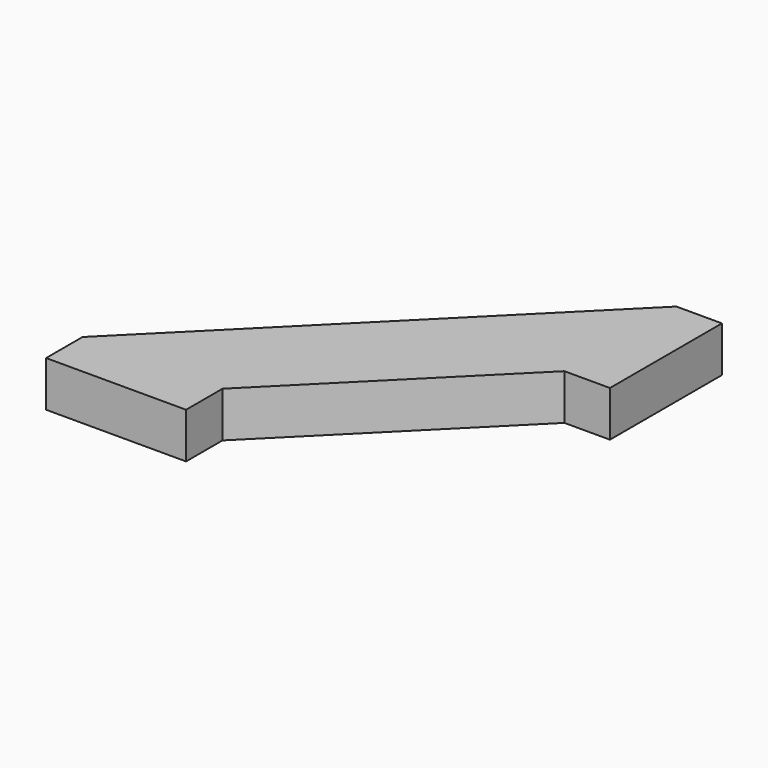
from build123d import *

# Parameters (mm, degrees)
F1_DEPTH = 12.3952
F2_W     = 38.1
F2_H     = 12.3952
F3_DEPTH = 12.3952
F4_W     = 38.1
F4_H     = 12.3952
F5_DEPTH = 12.3952


with BuildPart() as f1:
    # F0 (on Top) → F1 (new body)
    with BuildSketch(Plane.XY):
        Polygon((89.802561, 89.802561), (0, 0), (38.1, 0), (89.802561, 51.702561), align=None)
    extrude(amount=F1_DEPTH)

    # F2 (on face) → F3 (join)
    with BuildSketch(Plane.YZ.offset(89.802561)):
        with Locations((70.752561, 6.1976)):
            Rectangle(F2_W, F2_H)
    extrude(amount=F3_DEPTH)

    # F4 (on face) → F5 (join)
    with BuildSketch(Plane.XZ):
        with Locations((19.05, 6.1976)):
            Rectangle(F4_W, F4_H)
    extrude(amount=F5_DEPTH)


solid = f1.part
